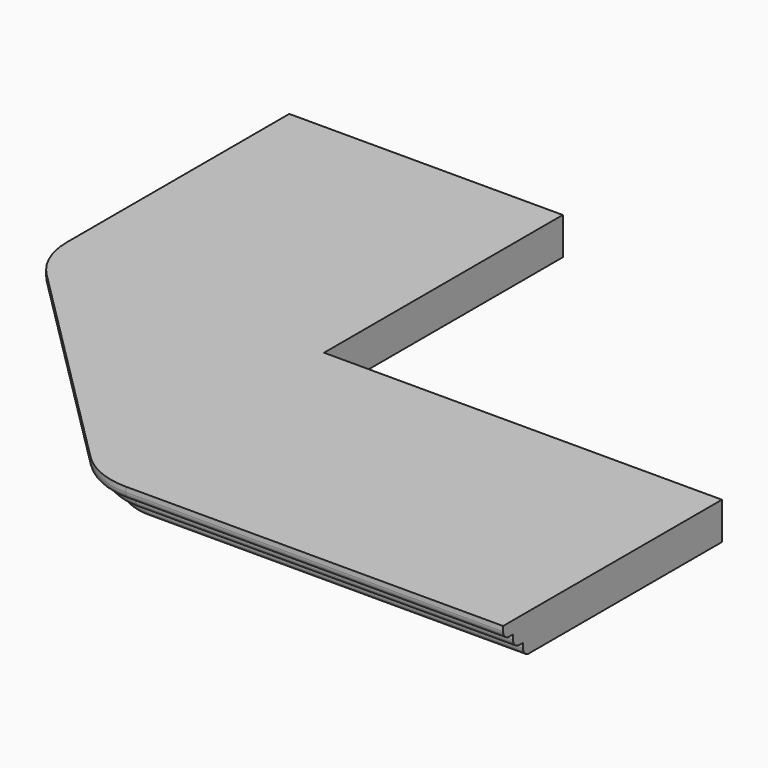
from build123d import *

# Parameters (mm, degrees)
F1_DEPTH = 25
F2_R     = 100
F4_DEPTH = 25
F6_DEPTH = 25
F8_DEPTH = 539
F9_R     = 15


with BuildPart() as f1:
    # F0 (on Top) → F1 (new body)
    with BuildSketch(Plane.XY):
        Polygon((0, 0), (0, 600), (-500, 600), (-500, 0), (0, -500), (800, -500), (800, 0), align=None)
    extrude(amount=F1_DEPTH)

    # F2
    f2_edges = [f1.edges().sort_by_distance(p)[0] for p in [
        (-500, 0, 12.5),
        (0, -500, 12.5),
    ]]
    fillet(f2_edges, radius=F2_R)

    # F3 (on face) → F4 (join)
    with BuildSketch(Plane.XY.offset(25)):
        with BuildLine():
            Line((-525, 625), (-525, 41.4213562373))
            ThreePointArc((-525, 41.4213562373), (-515.4849415639, -6.4140728083), (-488.3883476483, -46.966991411))
            Line((-488.3883476483, -46.966991411), (-46.966991411, -488.3883476483))
            ThreePointArc((-46.966991411, -488.3883476483), (-6.4140728083, -515.4849415639), (41.4213562373, -525))
            Line((41.4213562373, -525), (825, -525))
            Line((825, -525), (825, 25))
            Line((825, 25), (25, 25))
            Line((25, 25), (25, 625))
            Line((25, 625), (-525, 625))
        make_face()
    extrude(amount=F4_DEPTH)

    # F5 (on face) → F6 (join)
    with BuildSketch(Plane.XY.offset(50)):
        with BuildLine():
            Line((-550, 650), (-550, 41.4213562373))
            ThreePointArc((-550, 41.4213562373), (-538.5819298767, -15.9811586175), (-506.066017178, -64.6446609407))
            Line((-506.066017178, -64.6446609407), (-64.6446609407, -506.066017178))
            ThreePointArc((-64.6446609407, -506.066017178), (-15.9811586175, -538.5819298767), (41.4213562373, -550))
            Line((41.4213562373, -550), (850, -550))
            Line((850, -550), (850, 50))
            Line((850, 50), (50, 50))
            Line((50, 50), (50, 650))
            Line((50, 650), (-550, 650))
        make_face()
    extrude(amount=F6_DEPTH)

    # F7 (on face) → F8 (cut)
    with BuildSketch(Plane(origin=(0, 0, 0), x_dir=(1, 0, 0), z_dir=(0, 0, -1))):
        Polygon((800, 759.8769068718), (800, 0), (0, 0), (0, -600), (-650.8337855339, -600), (-650.8337855339, -840.3587818146), (869.2708611488, -840.3587818146), (869.2708611488, 0), (869.2708611488, 759.8769068718), align=None)
    extrude(amount=-F8_DEPTH, mode=Mode.SUBTRACT)

    # F9
    f9_edges = [f1.edges().sort_by_distance(p)[0] for p in [
        (420.710678, -500, 0),
        (420.710678, -525, 25),
        (420.710678, -550, 50),
        (3.153013, -492.387953, 0),
        (-6.414073, -515.484942, 25),
        (-15.981159, -538.58193, 50),
        (-250, -250, 0),
        (-267.67767, -267.67767, 25),
        (-285.355339, -285.355339, 50),
        (-492.387953, 3.153013, 0),
        (-515.484942, -6.414073, 25),
        (-538.58193, -15.981159, 50),
        (-500, 320.710678, 0),
        (-525, 320.710678, 25),
        (-550, 320.710678, 50),
    ]]
    fillet(f9_edges, radius=F9_R)


solid = f1.part
